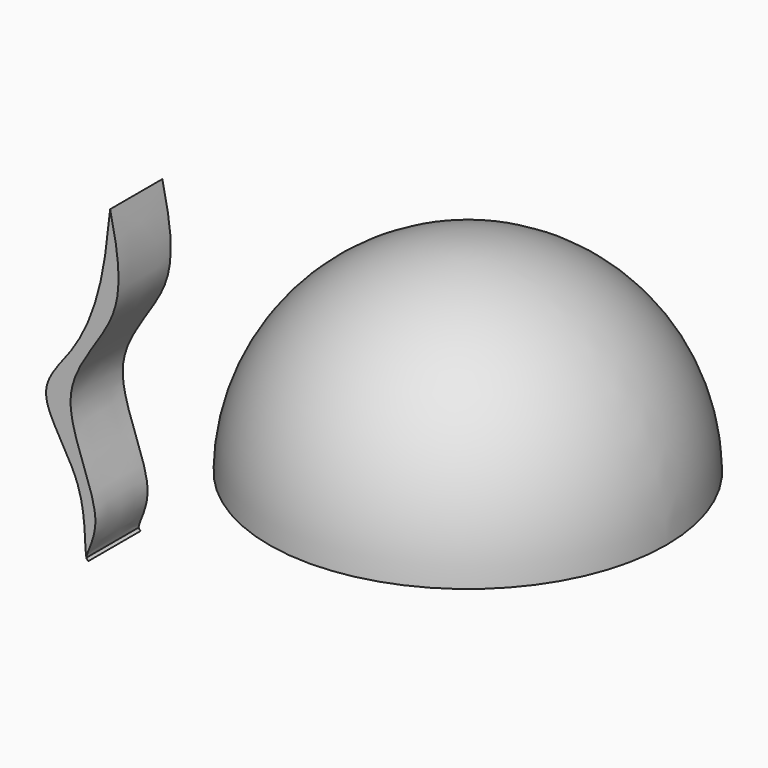
from build123d import *

# Parameters (mm, degrees)
F3_DEPTH = 25.4


with BuildPart() as f1:
    # F0 (on Front) → F1 (revolve)
    with BuildSketch(Plane.XZ):
        with BuildLine():
            ThreePointArc((109.700255096, 0), (130.4826152428, 10.5220725725), (153.5173356533, 13.9893712476))
            ThreePointArc((153.5173356533, 13.9893712476), (130.5795312432, 68.1288024678), (76.1969305056, 90.4839723626))
            Line((76.1969305056, 90.4839723626), (76.1969305056, 13.1591096957))
            ThreePointArc((76.1969305056, 13.1591096957), (90.1176149548, -0.6281645097), (109.700255096, 0))
        make_face()
    revolve(axis=Axis((76.1969305056, 0, 51.8215410291), (0, 0, 1)))


with BuildPart() as f3:
    # F2 (on Front) → F3 (new body)
    with BuildSketch(Plane.XZ):
        with BuildLine():
            add(Edge.make_bspline(
                [(-51.9147328996, -46.8287542572), (-51.719243746, -47.4230017526), (-51.4331996062, -47.5907681509), (-51.1471554637, -47.7585345507)],
                knots=[0.958670859, 0.958670859, 0.958670859, 0.958670859, 1, 1, 1, 1], degree=3))
            add(Edge.make_bspline(
                [(-51.9147329023, -46.8287542578), (-51.8729501529, -47.3393676714), (-51.5100528103, -47.5489511099), (-51.1471554637, -47.7585345507)],
                knots=[0.9529025772, 0.9529025772, 0.9529025772, 0.9529025772, 1, 1, 1, 1], degree=3))
        make_face()
    extrude(amount=F3_DEPTH)


with BuildPart() as f3b:
    # F2 (on Front) → F3, piece 2 (new body)
    with BuildSketch(Plane.XZ):
        with BuildLine():
            add(Edge.make_bspline(
                [(-42.7038706839, 75.5712911487), (-40.0777723456, 63.4005560856), (-34.7396327057, 38.6607806019), (-69.0317696754, 8.1553012163), (-42.3194415279, -30.8842450909), (-52.0575780585, -45.0830898231), (-51.9147329032, -46.8287542462)],
                knots=[0, 0, 0, 0, 0.2551233501, 0.5185959903, 0.7918878218, 0.9529025772, 0.9529025772, 0.9529025772, 0.9529025772], degree=3))
            add(Edge.make_bspline(
                [(-42.7038706839, 75.5712911487), (-43.6823299334, 66.1096226405), (-45.618214968, 47.3896785271), (-55.6033582178, 22.2650005574), (-74.7504029058, 4.11613276), (-50.8728954972, -20.9854214489), (-52.7706598165, -44.2269094861), (-51.9147329032, -46.8287542462)],
                knots=[0, 0, 0, 0, 0.2005826372, 0.3968534466, 0.5684483596, 0.7777159404, 0.958670859, 0.958670859, 0.958670859, 0.958670859], degree=3))
        make_face()
    extrude(amount=F3_DEPTH)


solid = Compound([f1.part, f3.part, f3b.part])
